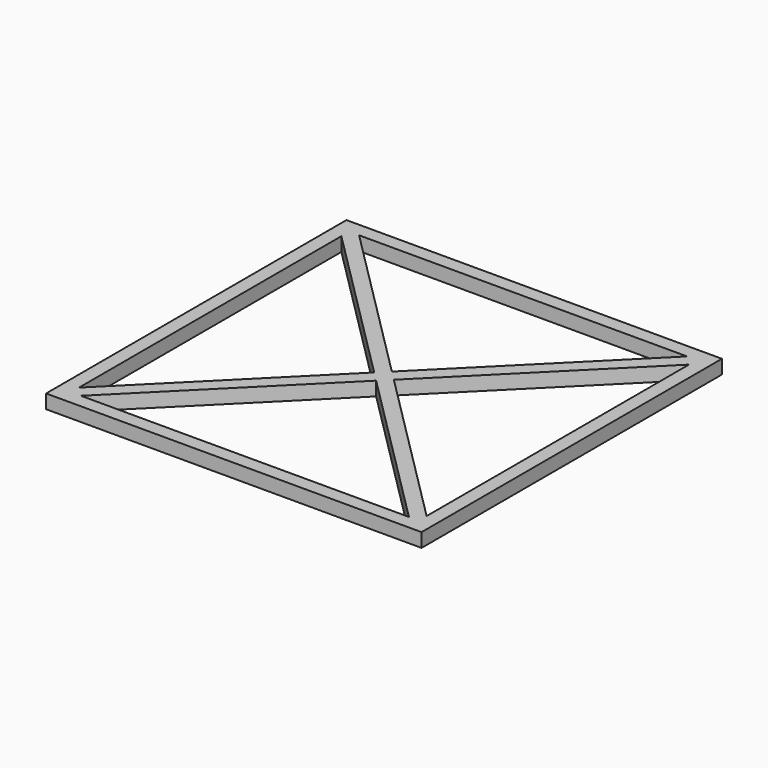
from build123d import *

# Parameters (mm, degrees)
F1_DEPTH = 0.6


with BuildPart() as f1:
    # F0 (on Top) → F1 (new body)
    with BuildSketch(Plane.XY):
        Polygon((0, -0.4242640687), (0, 0), (-0.2121320344, -0.2121320344), align=None)
        Polygon((-7.0757359313, 7.5), (-7.5, 7.5), (-0.2121320344, 0.2121320344), (0, 0.4242640687), align=None)
        Polygon((-0.4242640687, 0), (-7.5, -7.0757359313), (-7.5, -7.5), (-0.2121320344, -0.2121320344), align=None)
        Polygon((7.5, 7.5), (0.2121320344, 0.2121320344), (0.4242640687, 0), (7.5, 7.0757359313), align=None)
        Polygon((-7.5, 7.0757359313), (-7.5, 7.5), (-7.0757359313, 7.5), (0, 7.5), (0, 8.1), (-8.1, 8.1), (-8.1, -8.1), (0, -8.1), (0, -7.5), (-7.0757359313, -7.5), (-7.5, -7.5), (-7.5, -7.0757359313), align=None)
        Polygon((0.2121320344, 0.2121320344), (0, 0), (0.2121320344, -0.2121320344), (0.4242640687, 0), align=None)
        Polygon((0, 0.4242640687), (-0.2121320344, 0.2121320344), (0, 0), align=None)
        Polygon((-0.2121320344, -0.2121320344), (-7.5, -7.5), (-7.0757359313, -7.5), (0, -0.4242640687), align=None)
        Polygon((0.2121320344, -0.2121320344), (0, -0.4242640687), (7.0757359313, -7.5), (7.5, -7.5), align=None)
        Polygon((0, 0), (-0.2121320344, 0.2121320344), (-0.4242640687, 0), (-0.2121320344, -0.2121320344), align=None)
        Polygon((0, 8.1), (0, 7.5), (7.0757359313, 7.5), (7.5, 7.5), (7.5, 7.0757359313), (7.5, -7.0757359313), (7.5, -7.5), (7.0757359313, -7.5), (0, -7.5), (0, -8.1), (8.1, -8.1), (8.1, 8.1), align=None)
        Polygon((0.4242640687, 0), (0.2121320344, -0.2121320344), (7.5, -7.5), (7.5, -7.0757359313), align=None)
        Polygon((7.0757359313, 7.5), (0, 0.4242640687), (0.2121320344, 0.2121320344), (7.5, 7.5), align=None)
        Polygon((0.2121320344, -0.2121320344), (0, 0), (0, -0.4242640687), align=None)
        Polygon((0.2121320344, 0.2121320344), (0, 0.4242640687), (0, 0), align=None)
        Polygon((-0.2121320344, 0.2121320344), (-7.5, 7.5), (-7.5, 7.0757359313), (-0.4242640687, 0), align=None)
    extrude(amount=F1_DEPTH)


solid = f1.part
